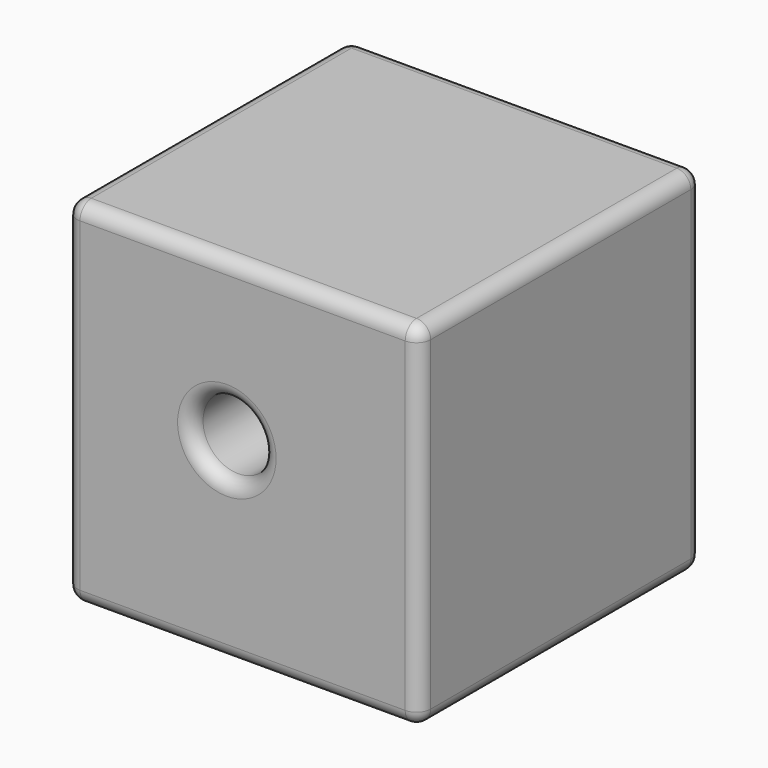
from build123d import *

# Parameters (mm, degrees)
F0_W     = 127
F0_H     = 127
F1_DEPTH = 127
F2_R     = 5.08
F3_R     = 12.617279
F4_DEPTH = 127.001
F5_R     = 5.08


with BuildPart() as f1:
    # F0 (on Top) → F1 (new body)
    with BuildSketch(Plane.XY):
        with Locations((63.5, -63.5)):
            Rectangle(F0_W, F0_H)
    extrude(amount=F1_DEPTH)

    # F2
    f2_edges = [f1.edges().sort_by_distance(p)[0] for p in [
        (63.5, -127, 127),
        (127, -63.5, 127),
        (0, -63.5, 127),
        (63.5, 0, 127),
        (127, -127, 63.5),
        (63.5, -127, 0),
        (127, -63.5, 0),
        (127, 0, 63.5),
        (63.5, 0, 0),
        (0, 0, 63.5),
        (0, -63.5, 0),
        (0, -127, 63.5),
    ]]
    fillet(f2_edges, radius=F2_R)

    # F3 (on face) → F4 (cut, through all)
    with BuildSketch(Plane.XZ.offset(127)):
        with Locations((57.836652, 69.655485)):
            Circle(F3_R)
    extrude(amount=-F4_DEPTH, mode=Mode.SUBTRACT)

    # F5
    f5_edges = [f1.edges().sort_by_distance(p)[0] for p in [
        (45.219373, -127, 69.655485),
        (45.219373, 0, 69.655485),
    ]]
    fillet(f5_edges, radius=F5_R)


solid = f1.part
